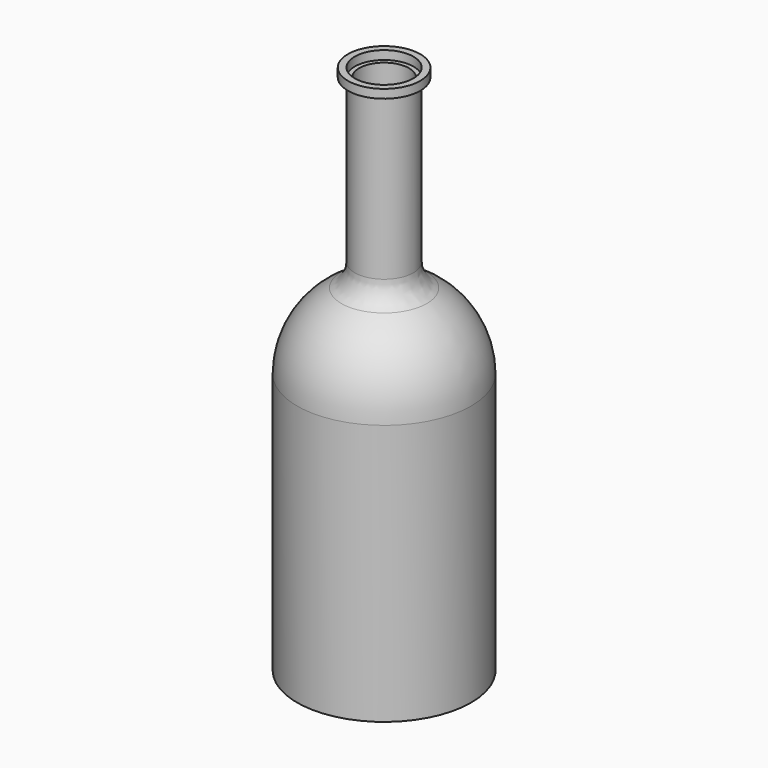
from build123d import *

# Parameters (mm, degrees)
F0_R      = 25.4
F1_DEPTH  = 101.6
F2_R      = 25.4
F3_R      = 8.5789654835
F4_DEPTH  = 152.4
F5_T      = -2.54
F6_R      = 7.62
F7_R      = 10.5656442456
F7_R_2    = 8.5789654835
F8_DEPTH  = 2.54
F9_R      = 7.2801716461
F10_DEPTH = 76.2


with BuildPart() as f1:
    # F0 (on Top) → F1 (new body)
    with BuildSketch(Plane.XY):
        Circle(F0_R)
    extrude(amount=F1_DEPTH)

    # F2
    f2_edges = [f1.edges().sort_by_distance(p)[0] for p in [
        (-25.4, 0, 101.6),
    ]]
    fillet(f2_edges, radius=F2_R)

    # F3 (on Top) → F4 (join)
    with BuildSketch(Plane.XY):
        Circle(F3_R)
    extrude(amount=F4_DEPTH)

    # F5
    f5_openings = [f1.faces().sort_by_distance(p)[0] for p in [
        (0, 0, 0),
    ]]
    offset(amount=F5_T, openings=f5_openings, kind=Kind.INTERSECTION)

    # F6
    f6_edges = [f1.edges().sort_by_distance(p)[0] for p in [
        (-8.578965, 0, 100.107349),
    ]]
    fillet(f6_edges, radius=F6_R)

    # F9 (on face) → F10 (cut)
    with BuildSketch(Plane.XY.offset(152.4)):
        Circle(F9_R)
    extrude(amount=-F10_DEPTH, mode=Mode.SUBTRACT)


with BuildPart() as f8:
    # F7 (on face) → F8 (new body)
    with BuildSketch(Plane.XY.offset(152.4)):
        Circle(F7_R)
        Circle(F7_R_2, mode=Mode.SUBTRACT)
    extrude(amount=F8_DEPTH)


solid = Compound([f1.part, f8.part])
